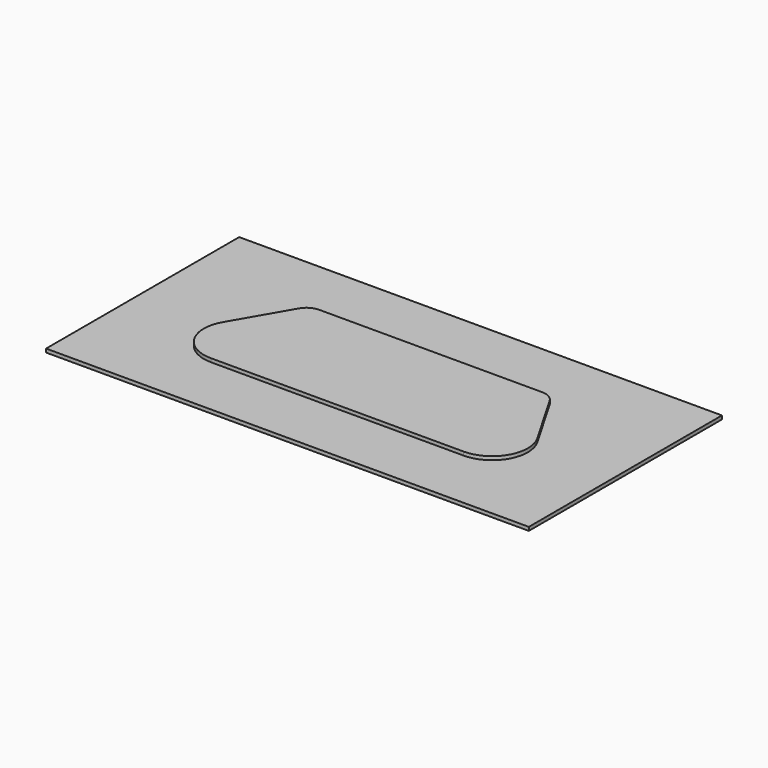
from build123d import *

# Parameters (mm, degrees)
F1_DEPTH = 18
F2_W     = 2440
F2_H     = 1220
F3_DEPTH = 18
F4_R     = 180
F5_R     = 80


with BuildPart() as f1:
    # F0 (on Top) → F1 (new body)
    with BuildSketch(Plane.XY):
        Polygon((610, 295), (-610, 295), (-950.636659, -295), (950.636659, -295), align=None)
    extrude(amount=F1_DEPTH)

    # F4
    f4_edges = [f1.edges().sort_by_distance(p)[0] for p in [
        (-950.636659, -295, 9),
        (950.636659, -295, 9),
    ]]
    fillet(f4_edges, radius=F4_R)

    # F5
    f5_edges = [f1.edges().sort_by_distance(p)[0] for p in [
        (-610, 295, 9),
        (610, 295, 9),
    ]]
    fillet(f5_edges, radius=F5_R)


with BuildPart() as f3:
    # F2 (on Top) → F3 (new body)
    with BuildSketch(Plane.XY):
        Rectangle(F2_W, F2_H)
    extrude(amount=-F3_DEPTH)


solid = Compound([f1.part, f3.part])
